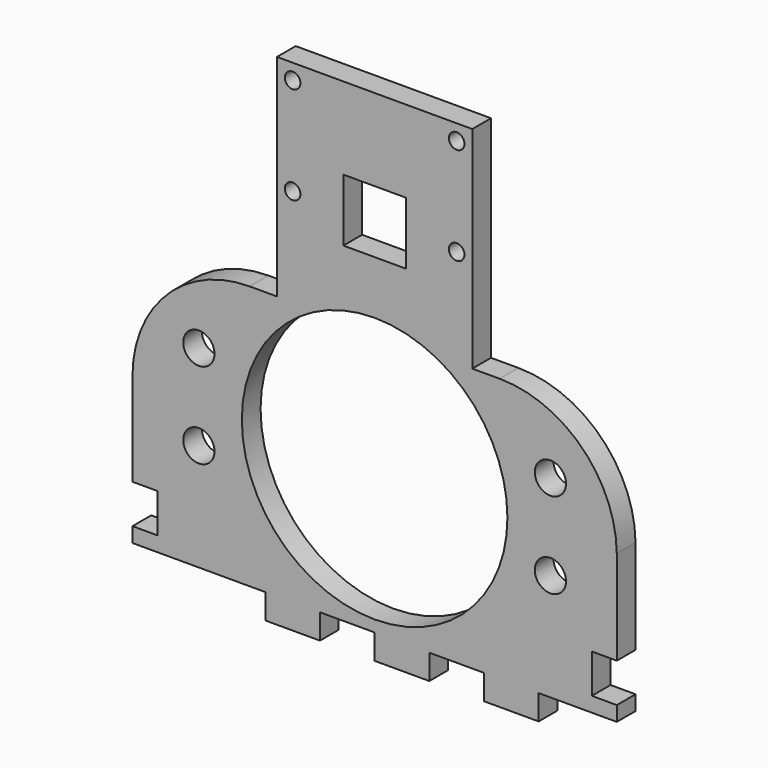
from build123d import *

# Parameters (mm, degrees)
F0_R     = 2
F0_R_2   = 17
F0_R_3   = 1
F0_W     = 8
F0_H     = 8
F1_DEPTH = 1.5


with BuildPart() as f1:
    # F0 (on Front) → F1 (new body, symmetric)
    with BuildSketch(Plane.XZ):
        with BuildLine():
            Line((12.5, -13.5), (12.5, 13.5))
            Line((12.5, 13.5), (-12.5, 13.5))
            Line((-12.5, 13.5), (-12.5, -13.5))
            Line((-12.5, -13.5), (-16, -13.5))
            ThreePointArc((-16, -13.5), (-26.606602, -17.893398), (-31, -28.5))
            Line((-31, -28.5), (-31, -35.5))
            Line((-31, -35.5), (-31, -40.4))
            Line((-31, -40.4), (-27.8, -40.4))
            Line((-27.8, -40.4), (-27.8, -45.4))
            Line((-27.8, -45.4), (-31, -45.4))
            Line((-31, -45.4), (-31, -47.3))
            Line((-31, -47.3), (-14, -47.3))
            Line((-14, -47.3), (-14, -50.5))
            Line((-14, -50.5), (-7, -50.5))
            Line((-7, -50.5), (-7, -47.3))
            Line((-7, -47.3), (0, -47.3))
            Line((0, -47.3), (0, -50.5))
            Line((0, -50.5), (7, -50.5))
            Line((7, -50.5), (7, -47.3))
            Line((7, -47.3), (14, -47.3))
            Line((14, -47.3), (14, -50.5))
            Line((14, -50.5), (21, -50.5))
            Line((21, -50.5), (21, -47.299735))
            Line((21, -47.299735), (31, -47.3))
            Line((31, -47.3), (31, -45.4))
            Line((31, -45.4), (27.8, -45.4))
            Line((27.8, -45.4), (27.8, -40.4))
            Line((27.8, -40.4), (31, -40.4))
            Line((31, -40.4), (31, -35.5))
            Line((31, -35.5), (31, -30.3))
            Line((31, -30.3), (31, -28.3))
            ThreePointArc((31, -28.3), (26.536987, -17.822922), (16.001333, -13.5))
            Line((16.001333, -13.5), (12.5, -13.5))
        make_face()
        with Locations((-22.5, -33.574794)):
            Circle(F0_R, mode=Mode.SUBTRACT)
        with Locations((-22.5, -22.574794)):
            Circle(F0_R, mode=Mode.SUBTRACT)
        with Locations((0, -28.835863)):
            Circle(F0_R_2, mode=Mode.SUBTRACT)
        with Locations((22.5, -33.574794)):
            Circle(F0_R, mode=Mode.SUBTRACT)
        with Locations((22.5, -22.574794)):
            Circle(F0_R, mode=Mode.SUBTRACT)
        with Locations((-10.5, -1)):
            Circle(F0_R_3, mode=Mode.SUBTRACT)
        with Locations((-10.5, 11.5)):
            Circle(F0_R_3, mode=Mode.SUBTRACT)
        with Locations((0, -1)):
            Rectangle(F0_W, F0_H, mode=Mode.SUBTRACT)
        with Locations((10.5, -1)):
            Circle(F0_R_3, mode=Mode.SUBTRACT)
        with Locations((10.5, 11.5)):
            Circle(F0_R_3, mode=Mode.SUBTRACT)
    extrude(amount=F1_DEPTH, both=True)


solid = f1.part
